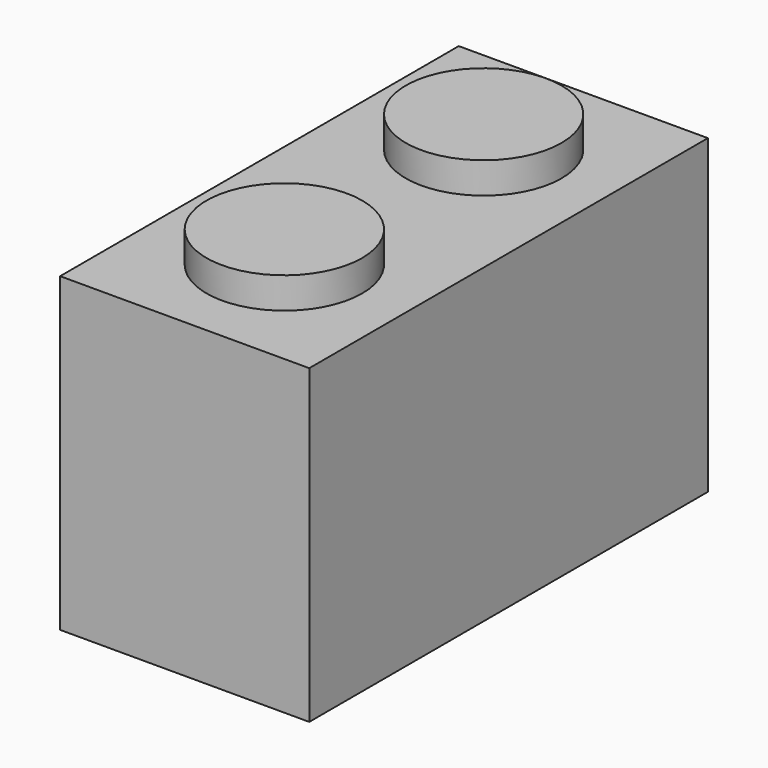
from build123d import *

# Parameters (mm, degrees)
F0_W     = 8
F0_H     = 16
F1_DEPTH = 10
F2_R     = 2.5
F3_DEPTH = 1
F4_T     = -1.5
F6_DEPTH = 10


with BuildPart() as f1:
    # F0 (on Top) → F1 (new body)
    with BuildSketch(Plane.XY):
        with Locations((-6.5223464929, 11.4436195551)):
            Rectangle(F0_W, F0_H)
    extrude(amount=F1_DEPTH)

    # F2 (on face) → F3 (join)
    with BuildSketch(Plane.XY.offset(10)):
        with Locations((-6.5223464929, 7.4436195551)):
            Circle(F2_R)
        with Locations((-6.5223464929, 15.4436195551)):
            Circle(F2_R)
    extrude(amount=F3_DEPTH)

    # F4
    f4_openings = [f1.faces().sort_by_distance(p)[0] for p in [
        (-6.522346, 11.44362, 0),
    ]]
    offset(amount=F4_T, openings=f4_openings, kind=Kind.INTERSECTION)

    # F5 (on face) → F6 (join)
    with BuildSketch(Plane.XY.offset(10)):
        with BuildLine():
            ThreePointArc((-6.5223464929, 9.9436195551), (-5.4616863211, 10.3829593833), (-5.0223464929, 11.4436195551))
            ThreePointArc((-5.0223464929, 11.4436195551), (-5.4616863203, 12.5042797261), (-6.5223464908, 12.9436195551))
            ThreePointArc((-6.5223464908, 12.9436195551), (-8.0223464929, 11.4436195561), (-6.5223464929, 9.9436195551))
        make_face()
    extrude(amount=-F6_DEPTH)


solid = f1.part
